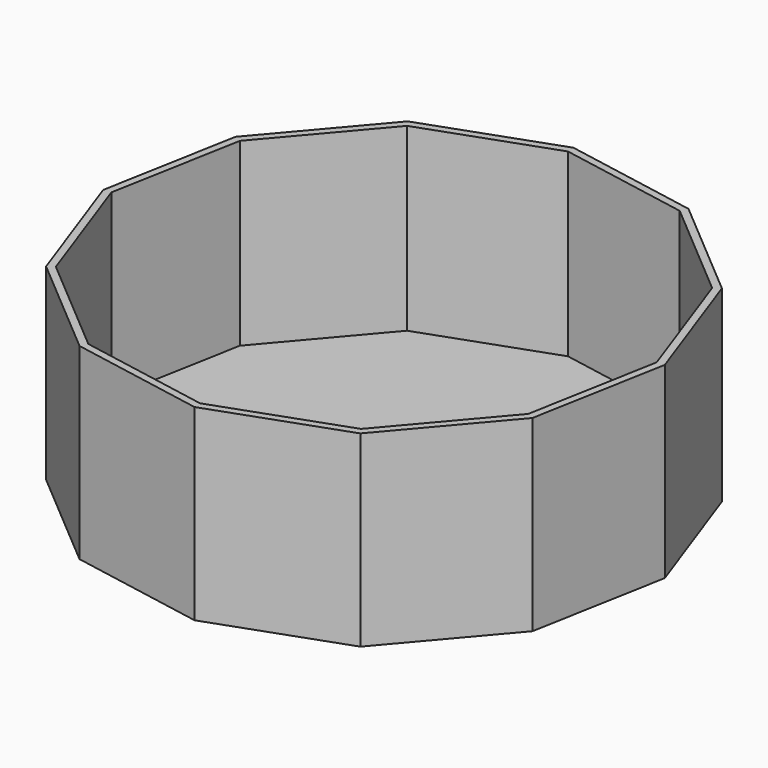
from build123d import *

# Parameters (mm, degrees)
F1_DEPTH = 64.516
F2_T     = -2.54


with BuildPart() as f1:
    # F0 (on Top) → F1 (new body)
    with BuildSketch(Plane.XY):
        Polygon((8.434549, 40.320739), (-35.881834, 24.495647), (-66.348401, -11.367476), (-74.801661, -57.659135), (-58.976569, -101.975517), (-23.113446, -132.442084), (23.178213, -140.895344), (67.494595, -125.070252), (97.961162, -89.207129), (106.414422, -42.915471), (90.58933, 1.400912), (54.726207, 31.867479), align=None)
    extrude(amount=F1_DEPTH)

    # F2
    f2_openings = [f1.faces().sort_by_distance(p)[0] for p in [
        (15.806381, -50.287303, 64.516),
    ]]
    offset(amount=F2_T, openings=f2_openings)


solid = f1.part
